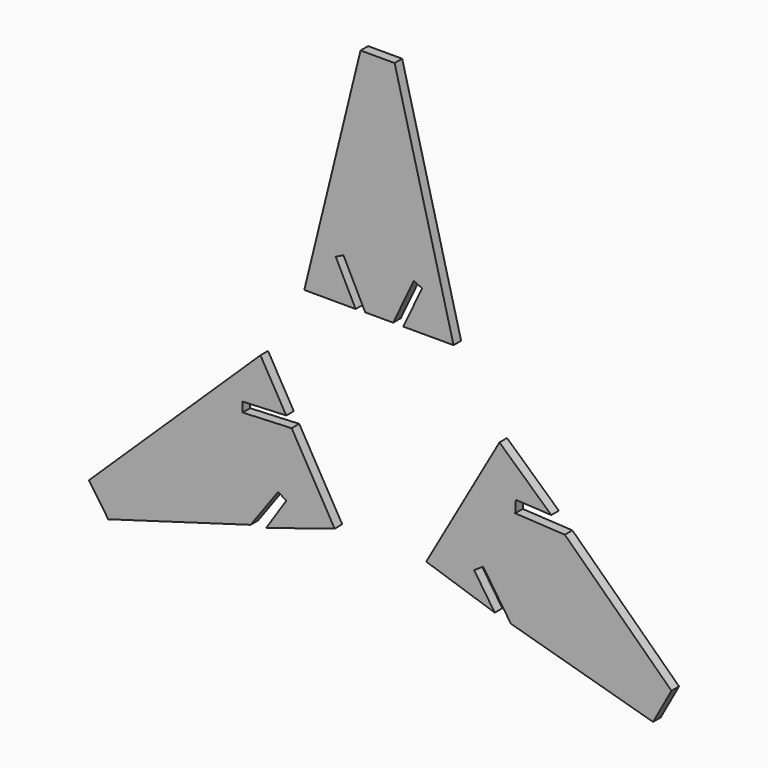
from build123d import *

# Parameters (mm, degrees)
F1_DEPTH = 4.445
F3_DEPTH = 4.445
F5_DEPTH = 4.445


with BuildPart() as f1:
    # F0 (on Front) → F1 (new body, symmetric)
    with BuildSketch(Plane.XZ):
        Polygon((223.161593, 229.267116), (198.954016, 271.226913), (37.814662, 115.467012), (55.90922, 89.058749), (189.662218, 127.937585), (215.626555, 163.706194), (223.161593, 158.747241), (204.333484, 130.138278), (268.642515, 150.433525), (228.270639, 220.411437), (182.234346, 218.395627), (181.837544, 227.457643), align=None)
    extrude(amount=F1_DEPTH, both=True)


with BuildPart() as f3:
    # F2 (on Front) → F3 (new body, symmetric)
    with BuildSketch(Plane.XZ):
        Polygon((472.178144, 227.892929), (423.524201, 272.203356), (354.693711, 151.152492), (419.108897, 129.911646), (399.715066, 158.7715), (408.165246, 164.450024), (434.221779, 125.67544), (567.794859, 87.89169), (585.110784, 119.291216), (484.909356, 215.798572), (438.27185, 218.338236), (438.890865, 229.705602), align=None)
    extrude(amount=F3_DEPTH, both=True)


with BuildPart() as f5:
    # F4 (on Front) → F5 (new body, symmetric)
    with BuildSketch(Plane.XZ):
        Polygon((292.972475, 553.911328), (240.125, 338.632256), (288.341178, 338.534324), (269.655789, 375.750796), (276.899695, 379.387766), (297.31974, 338.716307), (323.631405, 338.716307), (342.962737, 379.638507), (350.778937, 375.946194), (333.11218, 338.547707), (380.376518, 338.547707), (325.00124, 553.911328), align=None)
    extrude(amount=F5_DEPTH, both=True)


solid = Compound([f1.part, f3.part, f5.part])
